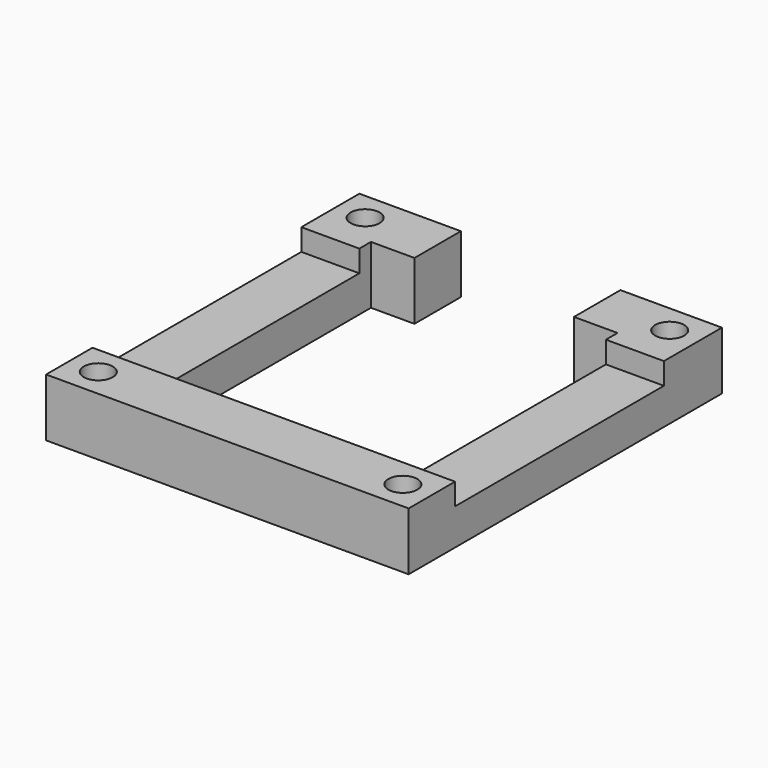
from build123d import *

# Parameters (mm, degrees)
RECTANGLE_W      = 25
RECTANGLE_H      = 27
EXTRUDE008_DEPTH = 7
RECTANGLE003_W   = 26
RECTANGLE003_H   = 18
EXTRUDE007_DEPTH = 1.5
RECTANGLE002_W   = 11
RECTANGLE002_H   = 5
EXTRUDE006_DEPTH = 11
CIRCLE002_R      = 1
EXTRUDE004_DEPTH = 11
CIRCLE003_R      = 1
EXTRUDE005_DEPTH = 11
CIRCLE001_R      = 1
EXTRUDE003_DEPTH = 11
CIRCLE_R         = 1
EXTRUDE002_DEPTH = 11
RECTANGLE001_W   = 17
RECTANGLE001_H   = 19
EXTRUDE001_DEPTH = 11
EXTRUDE_DEPTH    = 11


with BuildPart() as smaller:
    # Rectangle → Extrude008 (new body)
    with BuildSketch(Plane.XY):
        with Locations((12.5, 13.5)):
            Rectangle(RECTANGLE_W, RECTANGLE_H)
    extrude(amount=EXTRUDE008_DEPTH)


with BuildPart() as extrude007:
    # Rectangle003 → Extrude007 (new body)
    with BuildSketch(Plane(origin=(0, 4, 9.5), x_dir=(1, 0, 0), z_dir=(0, 0, 1))):
        with Locations((13, 9)):
            Rectangle(RECTANGLE003_W, RECTANGLE003_H)
    extrude(amount=EXTRUDE007_DEPTH)


with BuildPart() as extrude006:
    # Rectangle002 → Extrude006 (new body)
    with BuildSketch(Plane(origin=(7, 22, 0), x_dir=(1, 0, 0), z_dir=(0, 0, 1))):
        with Locations((5.5, 2.5)):
            Rectangle(RECTANGLE002_W, RECTANGLE002_H)
    extrude(amount=EXTRUDE006_DEPTH)


with BuildPart() as obj1:
    # Circle002 → Extrude004 (new body)
    with BuildSketch(Plane(origin=(2, 2, 0), x_dir=(1, 0, 0), z_dir=(0, 0, 1))):
        Circle(CIRCLE002_R)
    extrude(amount=EXTRUDE004_DEPTH)


with BuildPart() as obj2:
    # Circle003 → Extrude005 (new body)
    with BuildSketch(Plane(origin=(23, 2, 0), x_dir=(1, 0, 0), z_dir=(0, 0, 1))):
        Circle(CIRCLE003_R)
    extrude(amount=EXTRUDE005_DEPTH)


with BuildPart() as obj3:
    # Circle001 → Extrude003 (new body)
    with BuildSketch(Plane(origin=(23, 25, 0), x_dir=(1, 0, 0), z_dir=(0, 0, 1))):
        Circle(CIRCLE001_R)
    extrude(amount=EXTRUDE003_DEPTH)


with BuildPart() as obj4:
    # Circle → Extrude002 (new body)
    with BuildSketch(Plane(origin=(2, 25, 0), x_dir=(1, 0, 0), z_dir=(0, 0, 1))):
        Circle(CIRCLE_R)
    extrude(amount=EXTRUDE002_DEPTH)


with BuildPart() as extrude_inner:
    # Rectangle001 → Extrude001 (new body)
    with BuildSketch(Plane(origin=(4, 4, 0), x_dir=(1, 0, 0), z_dir=(0, 0, 1))):
        with Locations((8.5, 9.5)):
            Rectangle(RECTANGLE001_W, RECTANGLE001_H)
    extrude(amount=EXTRUDE001_DEPTH)


with BuildPart() as cut007:
    # Rectangle → Extrude (new body)
    with BuildSketch(Plane.XY):
        with Locations((12.5, 13.5)):
            Rectangle(RECTANGLE_W, RECTANGLE_H)
    extrude(amount=EXTRUDE_DEPTH)

    # Cut: cut Extrude inner
    add(extrude_inner.part, mode=Mode.SUBTRACT)

    # Cut001: cut obj4
    add(obj4.part, mode=Mode.SUBTRACT)

    # Cut002: cut obj3
    add(obj3.part, mode=Mode.SUBTRACT)

    # Cut003: cut obj2
    add(obj2.part, mode=Mode.SUBTRACT)

    # Cut004: cut obj1
    add(obj1.part, mode=Mode.SUBTRACT)

    # Cut005: cut Extrude006
    add(extrude006.part, mode=Mode.SUBTRACT)

    # Cut006: cut Extrude007
    add(extrude007.part, mode=Mode.SUBTRACT)

    # Cut007: cut smaller
    add(smaller.part, mode=Mode.SUBTRACT)


solid = cut007.part
